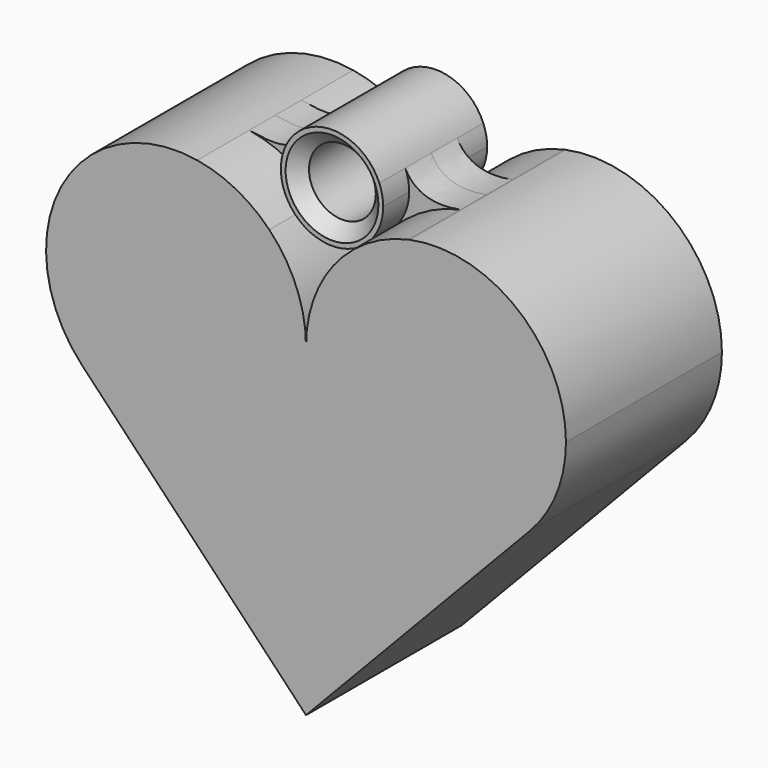
from build123d import *

# Parameters (mm, degrees)
F1_DEPTH = 9.525
F0_R     = 3.263573
F2_DEPTH = 6.35
F3_DEPTH = 3.175
F4_SIZE  = 1.27


with BuildPart() as f1:
    # F0 (on Front) → F1 (new body, symmetric)
    with BuildSketch(Plane.XZ):
        with BuildLine():
            ThreePointArc((3.587389, 21.501787), (0.930969, 17.428697), (0, 12.655866))
            ThreePointArc((0, 12.655866), (7.983338, 0.864212), (21.896552, 3.897245))
            ThreePointArc((21.896552, 3.897245), (24.491654, 7.939205), (25.4, 12.655866))
            ThreePointArc((25.4, 12.655866), (20.713209, 22.508707), (10.11205, 25.08939))
            add(Edge.make_bspline(
                [(10.11205, 25.08939), (10.082931, 25.083087), (10.053647, 25.076882), (10.024208, 25.070782)],
                knots=[0, 0, 0, 0, 0.090159, 0.090159, 0.090159, 0.090159], degree=3))
            ThreePointArc((10.024208, 25.070782), (6.541588, 23.762799), (3.587389, 21.501787))
        make_face()
        with BuildLine():
            ThreePointArc((-3.587389, 21.501787), (-6.810536, 23.90772), (-10.624388, 25.185105))
            ThreePointArc((-10.624388, 25.185105), (-23.923644, 18.598913), (-21.896552, 3.897245))
            ThreePointArc((-21.896552, 3.897245), (-7.983338, 0.864212), (0, 12.655866))
            ThreePointArc((0, 12.655866), (-0.930969, 17.428697), (-3.587389, 21.501787))
        make_face()
        with BuildLine():
            ThreePointArc((0, 12.655866), (-7.983338, 0.864212), (-21.896552, 3.897245))
            Line((-21.896552, 3.897245), (0, -19.094134))
            Line((0, -19.094134), (21.896552, 3.897245))
            ThreePointArc((21.896552, 3.897245), (7.983338, 0.864212), (0, 12.655866))
        make_face()
    extrude(amount=F1_DEPTH, both=True)

    # F0 (on Front) → F2 (join, symmetric)
    with BuildSketch(Plane.XZ):
        with BuildLine():
            ThreePointArc((-4.619993, 26.895242), (-4.91046, 24.044055), (-3.587389, 21.501787))
            ThreePointArc((-3.587389, 21.501787), (0, 19.98454), (3.587389, 21.501787))
            ThreePointArc((3.587389, 21.501787), (4.633149, 23.105252), (4.999646, 24.984187))
            ThreePointArc((4.999646, 24.984187), (4.903815, 25.958388), (4.619993, 26.895242))
            ThreePointArc((4.619993, 26.895242), (0, 29.983833), (-4.619993, 26.895242))
        make_face()
        with Locations((0, 24.984187)):
            Circle(F0_R, mode=Mode.SUBTRACT)
    extrude(amount=F2_DEPTH, both=True)

    # F4
    f4_edges = [f1.edges().sort_by_distance(p)[0] for p in [
        (-3.263573, -6.35, 24.984187),
        (-3.263573, 6.35, 24.984187),
    ]]
    chamfer(f4_edges, length=F4_SIZE)


with BuildPart() as f3:
    # F0 (on Front) → F3 (new body, symmetric)
    with BuildSketch(Plane.XZ):
        with BuildLine():
            add(Edge.make_bspline(
                [(-10.624388, 25.185105), (-7.844404, 24.724569), (-6.230196, 24.724569), (-4.619993, 26.895242)],
                knots=[0, 0, 0, 0, 6.243183, 6.243183, 6.243183, 6.243183], degree=3))
            ThreePointArc((-10.624388, 25.185105), (-6.810536, 23.90772), (-3.587389, 21.501787))
            ThreePointArc((-3.587389, 21.501787), (-4.91046, 24.044055), (-4.619993, 26.895242))
        make_face()
        with BuildLine():
            ThreePointArc((4.999646, 24.984187), (4.633149, 23.105252), (3.587389, 21.501787))
            ThreePointArc((3.587389, 21.501787), (6.541588, 23.762799), (10.024208, 25.070782))
            add(Edge.make_bspline(
                [(10.024208, 25.070782), (8.16588, 24.685738), (5.686702, 24.719665), (4.619993, 26.895242)],
                knots=[0.090159, 0.090159, 0.090159, 0.090159, 5.781332, 5.781332, 5.781332, 5.781332], degree=3))
            ThreePointArc((4.619993, 26.895242), (4.903815, 25.958388), (4.999646, 24.984187))
        make_face()
    extrude(amount=F3_DEPTH, both=True)


solid = Compound([f1.part, f3.part])
